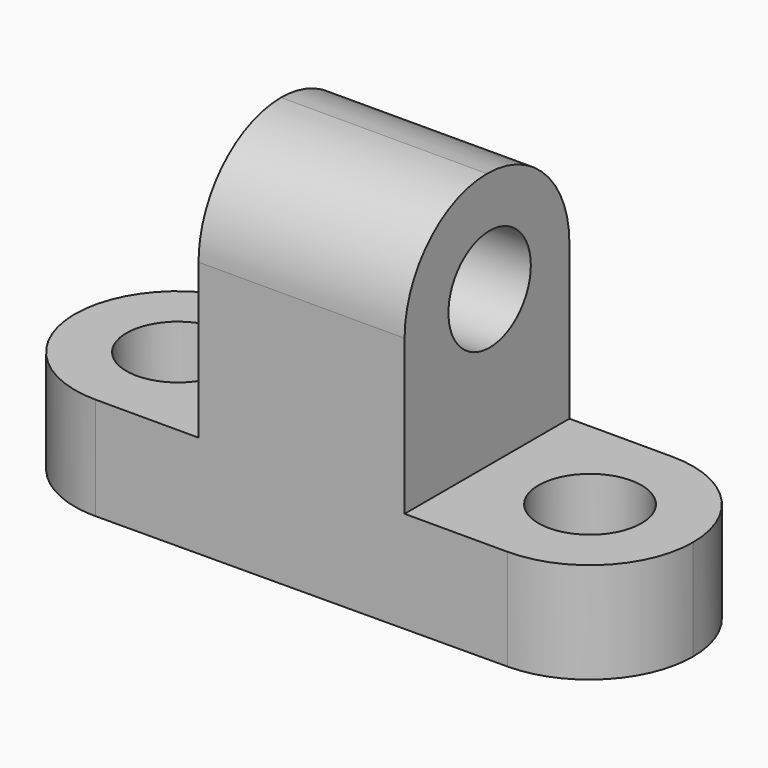
from build123d import *

# Parameters (mm, degrees)
F1_DEPTH = 25.4
F2_R     = 6.35
F3_DEPTH = 25.4
F4_R     = 6.35
F5_DEPTH = 25.4
F6_R     = 6.35
F7_DEPTH = 25.4


with BuildPart() as f1:
    # F0 (on Front) → F1 (new body)
    with BuildSketch(Plane.XZ):
        Polygon((-31.75, 12.404651), (-31.75, -0.295349), (44.449428, -2e-06), (44.449428, 12.404651), (19.049428, 12.404651), (19.049428, 44.154651), (-6.350572, 44.154651), (-6.35, 12.404651), align=None)
    extrude(amount=F1_DEPTH)

    # F2 (on face) → F3 (cut)
    with BuildSketch(Plane.XY.offset(12.404651)):
        with Locations((-19.050572, -12.7)):
            Circle(F2_R)
        with BuildLine():
            ThreePointArc((-31.75, -12.579426), (-27.988098, -3.677215), (-19.050572, 0))
            Line((-19.050572, 0), (-31.75, 0))
            Line((-31.75, 0), (-31.75, -12.579426))
        make_face()
        with BuildLine():
            ThreePointArc((-19.050572, -25.4), (-27.988098, -21.722785), (-31.75, -12.820574))
            Line((-31.75, -12.820574), (-31.75, -25.4))
            Line((-31.75, -25.4), (-19.050572, -25.4))
        make_face()
    extrude(amount=-F3_DEPTH, mode=Mode.SUBTRACT)

    # F4 (on face) → F5 (cut)
    with BuildSketch(Plane.XY.offset(12.404651)):
        with Locations((31.749428, -12.7)):
            Circle(F4_R)
        with BuildLine():
            ThreePointArc((31.749428, 0), (40.729684, -3.719744), (44.449428, -12.7))
            Line((44.449428, -12.7), (44.449428, 0))
            Line((44.449428, 0), (31.749428, 0))
        make_face()
        with BuildLine():
            ThreePointArc((44.449428, -12.7), (40.729684, -21.680256), (31.749428, -25.4))
            Line((31.749428, -25.4), (44.449428, -25.4))
            Line((44.449428, -25.4), (44.449428, -12.7))
        make_face()
    extrude(amount=-F5_DEPTH, mode=Mode.SUBTRACT)

    # F6 (on face) → F7 (cut)
    with BuildSketch(Plane.YZ.offset(19.049428)):
        with Locations((-12.295053, 31.461109)):
            Circle(F6_R)
        with BuildLine():
            ThreePointArc((-12.7, 44.154651), (-3.719744, 40.434907), (0, 31.454651))
            Line((0, 31.454651), (0, 44.154651))
            Line((0, 44.154651), (-12.7, 44.154651))
        make_face()
        with BuildLine():
            ThreePointArc((-25.4, 31.454651), (-21.680256, 40.434907), (-12.7, 44.154651))
            Line((-12.7, 44.154651), (-25.4, 44.154651))
            Line((-25.4, 44.154651), (-25.4, 31.454651))
        make_face()
    extrude(amount=-F7_DEPTH, mode=Mode.SUBTRACT)


solid = f1.part
